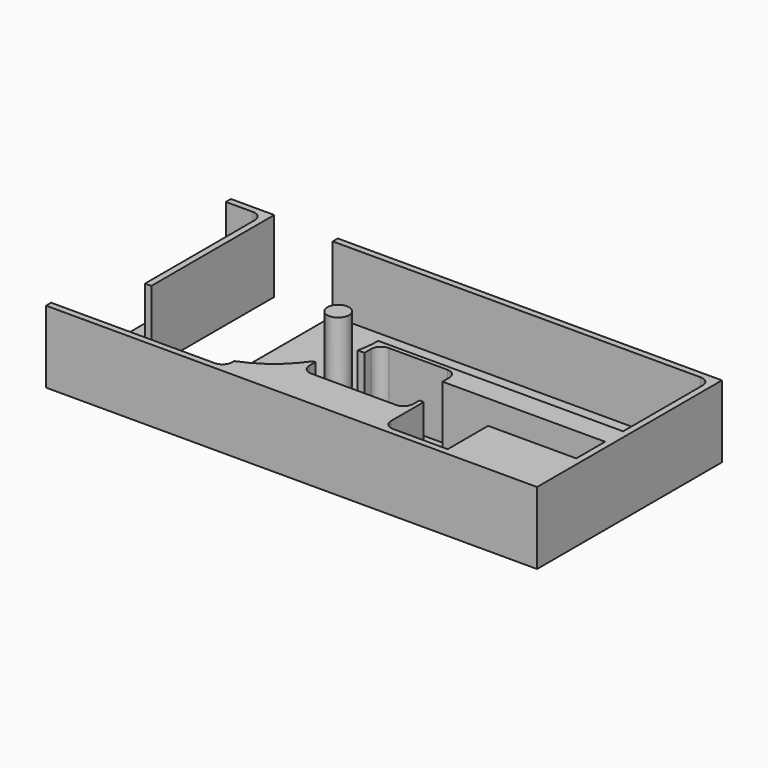
from build123d import *

# Parameters (mm, degrees)
F1_DEPTH  = 25
F2_T      = -2.2
F3_R      = 7.5
F4_DEPTH  = 25
F5_R      = 3.75
F6_DEPTH  = 22.8
F7_W      = 35
F7_H      = 17.5
F8_DEPTH  = 22.8
F9_W      = 24.2
F9_H      = 51
F10_DEPTH = 22.8
F11_W     = 27.0332266644
F11_H     = 1.5
F11_W_2   = 6.9575315177
F11_W_3   = 1.9967853452
F12_DEPTH = 22.8
F13_R     = 3.4
F14_R     = 0.5301707608
F15_DEPTH = 25
F16_W     = 58.4967853452
F16_H     = 7.8
F16_W_2   = 30.5156996727
F16_H_2   = 17.5
F17_DEPTH = 22.8
F18_W     = 5.6
F18_H     = 75.6
F19_DEPTH = 22.8


with BuildPart() as f1:
    # F0 (on Top) → F1 (new body)
    with BuildSketch(Plane.XY):
        Polygon((-70, 40), (-85, 40), (-85, -40), (85, -40), (85, 40), (-48, 40), (-48, -11), (-70, -11), align=None)
    extrude(amount=F1_DEPTH)

    # F2
    f2_openings = [f1.faces().sort_by_distance(p)[0] for p in [
        (5.305177, -1.303815, 25),
    ]]
    offset(amount=F2_T, openings=f2_openings, kind=Kind.INTERSECTION)

    # F3 (on face) → F4 (cut)
    with BuildSketch(Plane.XY.offset(2.2)):
        with Locations((-38, 0)):
            Circle(F3_R)
    extrude(amount=-F4_DEPTH, mode=Mode.SUBTRACT)

    # F5 (on face) → F6 (join, through all)
    with BuildSketch(Plane.XY.offset(2.2)):
        with Locations((-21.3, 6.8)):
            Circle(F5_R)
    extrude(amount=F6_DEPTH)

    # F7 (on face) → F8 (join, through all)
    with BuildSketch(Plane.XY.offset(2.2)):
        with Locations((12.5, -29.05)):
            Rectangle(F7_W, F7_H)
        with BuildLine():
            Line((-5, -20.3), (-8.2693760577, -20.3))
            ThreePointArc((-8.2693760577, -20.3), (-15.628025883, -28.2045169096), (-25, -33.5708206632))
            Line((-25, -33.5708206632), (-25, -37.8))
            Line((-25, -37.8), (-5, -37.8))
            Line((-5, -37.8), (-5, -20.3))
        make_face()
        with BuildLine():
            Line((28.1302789037, 0), (-2, 0))
            ThreePointArc((-2, 0), (-2.2144278138, -3.9233688725), (-2.8551568505, -7.8))
            Line((-2.8551568505, -7.8), (29.5341439003, -7.8))
            ThreePointArc((29.5341439003, -7.8), (28.1976713274, -4.0142062307), (28.1302789037, 0))
        make_face()
    extrude(amount=F8_DEPTH)

    # F9 (on face) → F10 (cut, through all)
    with BuildSketch(Plane.XY.offset(25)):
        with Locations((-57.9, 12.3)):
            Rectangle(F9_W, F9_H)
    extrude(amount=-F10_DEPTH, mode=Mode.SUBTRACT)

    # F11 (on face) → F12 (cut, through all)
    with BuildSketch(Plane.XY.offset(25)):
        with BuildLine():
            Line((-0.5300120096, -6.3), (26.5032146548, -6.3))
            Line((26.5032146548, -6.3), (26.5032146548, -2.1))
            ThreePointArc((26.5032146548, -2.1), (26.5, -1.8), (26.5032146548, -1.5))
            Line((26.5032146548, -1.5), (-0.5300120096, -1.5))
            Line((-0.5300120096, -1.5), (-0.5300120096, -6.3))
        make_face()
        with Locations((12.9866013226, -7.05)):
            Rectangle(F11_W, F11_H)
        with Locations((12.9866013226, -21.05)):
            Rectangle(F11_W, F11_H)
        Polygon((28.5, -21.8), (26.5032146548, -21.8), (-0.5300120096, -21.8), (-7.4875435273, -21.8), (-7.4875435273, -26.3), (28.5, -26.3), align=None)
        with Locations((-4.0087777684, -21.05)):
            Rectangle(F11_W_2, F11_H)
        with Locations((27.5016073274, -21.05)):
            Rectangle(F11_W_3, F11_H)
    extrude(amount=-F12_DEPTH, mode=Mode.SUBTRACT)

    # F13
    f13_edges = [f1.edges().sort_by_distance(p)[0] for p in [
        (-0.530012, -1.5, 13.6),
        (26.503215, -1.5, 13.6),
        (26.503215, -2.1, 13.6),
        (28.5, -26.3, 13.6),
        (-7.487544, -26.3, 13.6),
        (30, -37.8, 13.6),
        (82.8, -37.8, 13.6),
        (82.8, 37.8, 13.6),
        (-72.2, 37.8, 13.6),
        (-82.8, 37.8, 13.6),
        (-82.8, -37.8, 13.6),
        (-25, -37.8, 13.6),
    ]]
    fillet(f13_edges, radius=F13_R)

    # F14 (on face) → F15 (cut)
    with BuildSketch(Plane.XY.offset(2.2)):
        with Locations((40.2, -1.5)):
            Circle(F14_R)
        with Locations((40.2, -26.5)):
            Circle(F14_R)
    extrude(amount=-F15_DEPTH, mode=Mode.SUBTRACT)

    # F16 (on face) → F17 (join, through all)
    with BuildSketch(Plane.XY.offset(25)):
        with Locations((55.7516073274, -3.9)):
            Rectangle(F16_W, F16_H)
        with Locations((67.5421501637, -29.05)):
            Rectangle(F16_W_2, F16_H_2)
    extrude(amount=-F17_DEPTH)

    # F18 (on face) → F19 (cut, through all)
    with BuildSketch(Plane.XY.offset(25)):
        with Locations((-82.2, 0)):
            Rectangle(F18_W, F18_H)
    extrude(amount=-F19_DEPTH, mode=Mode.SUBTRACT)


solid = f1.part
